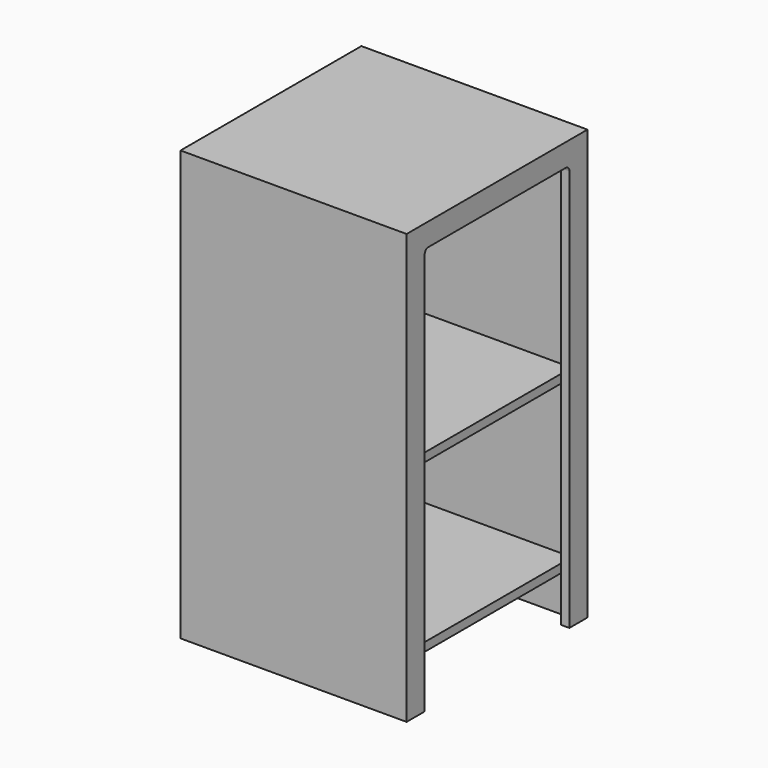
from build123d import *

# Parameters (mm, degrees)
F0_W      = 500
F0_H      = 500
F1_DEPTH  = 950
F2_T      = -19
F3_W      = 400
F3_H      = 900
F4_DEPTH  = 25
F5_R      = 10
F7_W      = 461.7021232843
F7_H      = 462.5295698643
F8_DEPTH  = 19
F10_W     = 460.7798308134
F10_H     = 461.6745561361
F11_DEPTH = 19


with BuildPart() as f1:
    # F0 (on Top) → F1 (new body)
    with BuildSketch(Plane.XY):
        Rectangle(F0_W, F0_H)
    extrude(amount=F1_DEPTH)

    # F2
    f2_openings = [f1.faces().sort_by_distance(p)[0] for p in [
        (0, 0, 0),
    ]]
    offset(amount=F2_T, openings=f2_openings)

    # F3 (on face) → F4 (cut)
    with BuildSketch(Plane.YZ.offset(250)):
        with Locations((0, 450)):
            Rectangle(F3_W, F3_H)
    extrude(amount=-F4_DEPTH, mode=Mode.SUBTRACT)

    # F5
    f5_edges = [f1.edges().sort_by_distance(p)[0] for p in [
        (240.5, 200, 900),
        (240.5, -200, 900),
    ]]
    fillet(f5_edges, radius=F5_R)

    # F7 (on offset) → F8 (join)
    with BuildSketch(Plane.XY.offset(100)):
        with Locations((-0.2068504691, 0.2068579197)):
            Rectangle(F7_W, F7_H)
    extrude(amount=F8_DEPTH)

    # F10 (on offset) → F11 (join)
    with BuildSketch(Plane.XY.offset(469)):
        with Locations((0.1056715846, -0.2236738801)):
            Rectangle(F10_W, F10_H)
    extrude(amount=F11_DEPTH)


solid = f1.part
